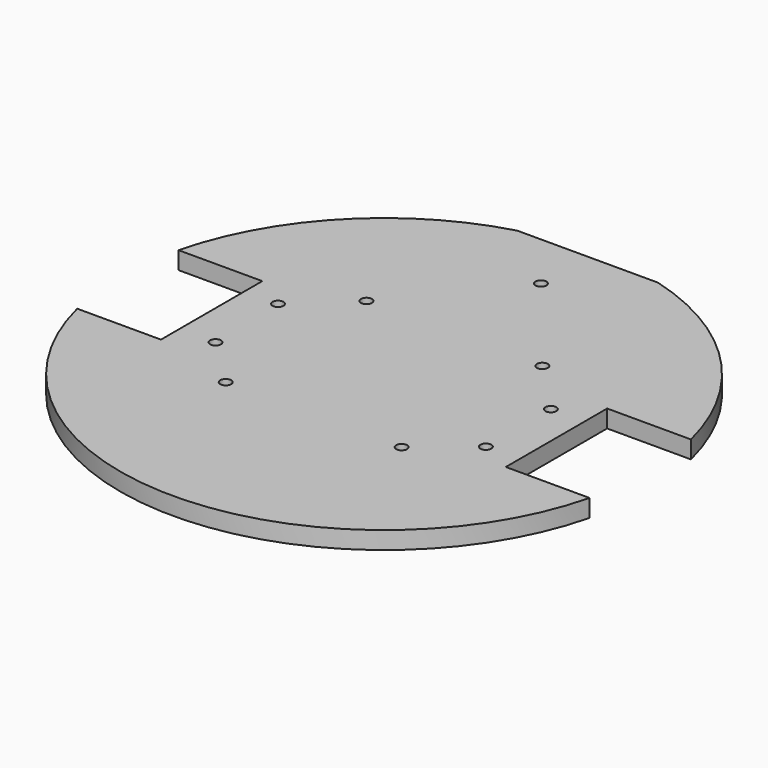
from build123d import *

# Parameters (mm, degrees)
F0_R      = 75
F1_DEPTH  = 5
F2_W      = 26
F2_H      = 36
F3_DEPTH  = 25
F4_W      = 26
F4_H      = 36
F5_DEPTH  = 25
F6_W      = 40
F6_H      = 5.71822
F7_DEPTH  = 25
F8_R      = 1.55
F9_DEPTH  = 25
F10_R     = 1.55
F11_DEPTH = 25
F12_R     = 1.55
F13_DEPTH = 25
F14_R     = 1.55
F15_DEPTH = 25


with BuildPart() as f1:
    # F0 (on Top) → F1 (new body)
    with BuildSketch(Plane.XY):
        Circle(F0_R)
    extrude(amount=F1_DEPTH)

    # F2 (on Top) → F3 (cut)
    with BuildSketch(Plane.XY):
        with Locations((62, 0)):
            Rectangle(F2_W, F2_H)
    extrude(amount=F3_DEPTH, mode=Mode.SUBTRACT)

    # F4 (on Top) → F5 (cut)
    with BuildSketch(Plane.XY):
        with Locations((-62, 0)):
            Rectangle(F4_W, F4_H)
    extrude(amount=F5_DEPTH, mode=Mode.SUBTRACT)

    # F6 (on Top) → F7 (cut)
    with BuildSketch(Plane.XY):
        with Locations((0, 75.143271)):
            Rectangle(F6_W, F6_H)
    extrude(amount=F7_DEPTH, mode=Mode.SUBTRACT)

    # F8 (on face) → F9 (cut)
    with BuildSketch(Plane.XY.offset(5)):
        with Locations((-25, -25)):
            Circle(F8_R)
        with Locations((-25, 25)):
            Circle(F8_R)
        with Locations((25, 25)):
            Circle(F8_R)
        with Locations((25, -25)):
            Circle(F8_R)
    extrude(amount=-F9_DEPTH, mode=Mode.SUBTRACT)

    # F10 (on face) → F11 (cut)
    with BuildSketch(Plane.XY.offset(5)):
        with Locations((39.45, 9.95)):
            Circle(F10_R)
        with Locations((39.45, -13.15)):
            Circle(F10_R)
    extrude(amount=-F11_DEPTH, mode=Mode.SUBTRACT)

    # F12 (on face) → F13 (cut)
    with BuildSketch(Plane.XY.offset(5)):
        with Locations((-39.45, 11.638757)):
            Circle(F12_R)
        with Locations((-38.729364, -11.45)):
            Circle(F12_R)
    extrude(amount=-F13_DEPTH, mode=Mode.SUBTRACT)

    # F14 (on face) → F15 (cut)
    with BuildSketch(Plane.XY.offset(5)):
        with Locations((0, 55.734161)):
            Circle(F14_R)
    extrude(amount=-F15_DEPTH, mode=Mode.SUBTRACT)


solid = f1.part
